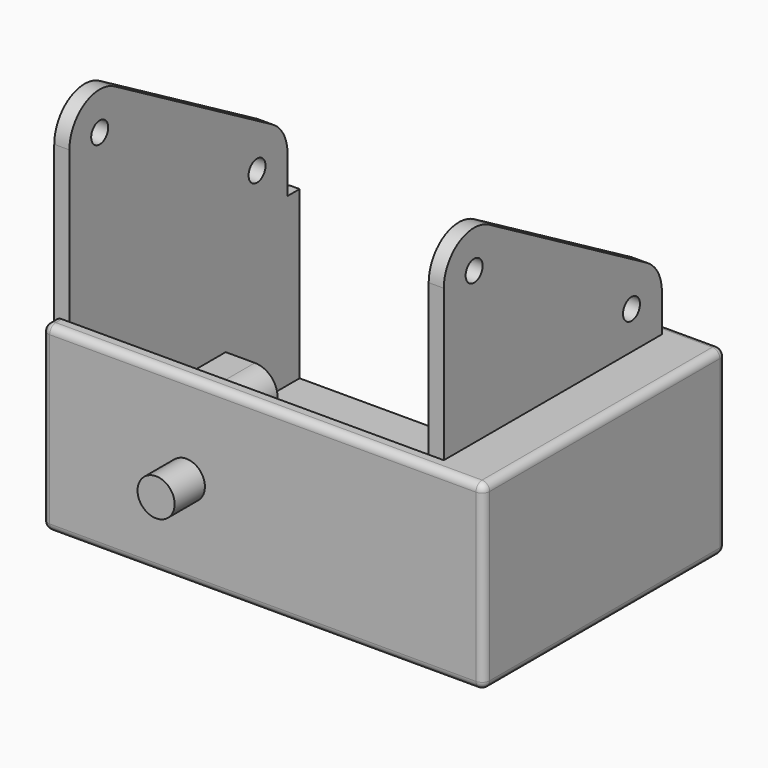
from build123d import *

# Parameters (mm, degrees)
SKETCH_W        = 54.3
SKETCH_H        = 38
PAD_DEPTH       = 2
SKETCH001_W     = 54.3
SKETCH001_H     = 2
PAD001_DEPTH    = 22
SKETCH002_R     = 2.45
PAD002_DEPTH    = 5
SKETCH003_W     = 40
SKETCH003_H     = 22
PAD003_DEPTH    = 2
SKETCH004_W     = 40
SKETCH004_H     = 22
PAD004_DEPTH    = 2
SKETCH005_W     = 6.85
SKETCH005_H     = 15
PAD005_DEPTH    = 8
SKETCH006_R     = 1.4
POCKET_DEPTH    = 15
FILLET_R        = 3
FILLET001_R     = 2
SKETCH007_W     = 6.85
SKETCH007_H     = 25.8
PAD006_DEPTH    = 20
SKETCH008_R     = 1.4
POCKET001_DEPTH = 15
PAD007_DEPTH    = 2
SKETCH010_R     = 1.4
PAD008_DEPTH    = 2
SKETCH011_R     = 1.4
PAD009_DEPTH    = 2
FILLET002_R     = 1
FILLET003_R     = 1
FILLET004_R     = 1
FILLET005_R     = 1
FILLET006_R     = 1


with BuildPart() as body:
    # Sketch → Pad (new body)
    with BuildSketch(Plane.XY):
        with Locations((27.15, 21)):
            Rectangle(SKETCH_W, SKETCH_H)
    extrude(amount=PAD_DEPTH)

    # Sketch001 → Pad001 (join)
    with BuildSketch(Plane.XY):
        with Locations((27.15, 1)):
            Rectangle(SKETCH001_W, SKETCH001_H)
    extrude(amount=PAD001_DEPTH)

    # Sketch002 → Pad002 (join)
    with BuildSketch(Plane.XZ):
        with Locations((37.25, 12)):
            Circle(SKETCH002_R)
    extrude(amount=PAD002_DEPTH)

    # Sketch003 (on Face2 of Pad002) → Pad003 (join)
    with BuildSketch(Plane(origin=(0, 0, 0), x_dir=(0, -1, 0), z_dir=(-1, 0, 0))):
        with Locations((-20, 11)):
            Rectangle(SKETCH003_W, SKETCH003_H)
    extrude(amount=PAD003_DEPTH)

    # Sketch004 (on Face3 of Pad003) → Pad004 (join)
    with BuildSketch(Plane.YZ.offset(54.3)):
        with Locations((20, 11)):
            Rectangle(SKETCH004_W, SKETCH004_H)
    extrude(amount=PAD004_DEPTH)

    # Sketch005 (on Face5 of Pad004) → Pad005 (join)
    with BuildSketch(Plane.XY.offset(2)):
        with Locations((50.875, 20.3)):
            Rectangle(SKETCH005_W, SKETCH005_H)
    extrude(amount=PAD005_DEPTH)

    # Sketch006 (on Face15 of Pad005) → Pocket (cut)
    with BuildSketch(Plane(origin=(0, 27.8, 0), x_dir=(-1, 0, 0), z_dir=(0, 1, 0))):
        with Locations((-51.3, 7)):
            Circle(SKETCH006_R)
    extrude(amount=-POCKET_DEPTH, mode=Mode.SUBTRACT)

    # Fillet
    fillet_edges = [body.edges().sort_by_distance(p)[0] for p in [
        (47.45, 20.3, 10),
    ]]
    fillet(fillet_edges, radius=FILLET_R)

    # Fillet001
    fillet001_edges = [body.edges().sort_by_distance(p)[0] for p in [
        (52.375, 12.8, 10),
    ]]
    fillet(fillet001_edges, radius=FILLET001_R)

    # Sketch007 (on Face5 of Fillet001) → Pad006 (join)
    with BuildSketch(Plane.XY.offset(2)):
        with Locations((3.425, 14.9)):
            Rectangle(SKETCH007_W, SKETCH007_H)
    extrude(amount=PAD006_DEPTH)

    # Sketch008 (on Face14 of Pad006) → Pocket001 (cut)
    with BuildSketch(Plane(origin=(0, 27.8, 0), x_dir=(-1, 0, 0), z_dir=(0, 1, 0))):
        with Locations((-3, 7)):
            Circle(SKETCH008_R)
        with Locations((-3, 17)):
            Circle(SKETCH008_R)
    extrude(amount=-POCKET001_DEPTH, mode=Mode.SUBTRACT)

    # Sketch009 (on Face21 of Pocket001) → Pad007 (join)
    with BuildSketch(Plane.XY.offset(22)):
        Polygon((54.3, 2), (54.3, 40), (56.3, 40), (56.3, 0), (-2, 0), (-2, 40), (6.85, 40), (6.85, 2), align=None)
    extrude(amount=PAD007_DEPTH)

    # Sketch010 (on Face22 of Pad007) → Pad008 (join)
    with BuildSketch(Plane.YZ.offset(6.85)):
        with BuildLine():
            Line((2, 24), (38, 24))
            Line((38, 29), (38, 24))
            ThreePointArc((38, 29), (37.326745, 31.511013), (35.487593, 33.348396))
            Line((35.487593, 33.348396), (9.497223, 48.331729))
            ThreePointArc((9.497223, 48.331729), (4.498612, 48.329325), (2, 44))
            Line((2, 44), (2, 24))
        make_face()
        with Locations((7, 44)):
            Circle(SKETCH010_R, mode=Mode.SUBTRACT)
        with Locations((32.980762, 29)):
            Circle(SKETCH010_R, mode=Mode.SUBTRACT)
    extrude(amount=-PAD008_DEPTH)

    # Sketch011 (on Face20 of Pad008) → Pad009 (join)
    with BuildSketch(Plane(origin=(54.3, 0, 0), x_dir=(0, -1, 0), z_dir=(-1, 0, 0))):
        with BuildLine():
            Line((-38, 24), (-38, 29))
            ThreePointArc((-35.487593, 33.348396), (-37.326745, 31.511013), (-38, 29))
            Line((-35.487593, 33.348396), (-9.497223, 48.331729))
            ThreePointArc((-2, 44), (-4.498612, 48.329325), (-9.497223, 48.331729))
            Line((-2, 44), (-2, 24))
            Line((-2, 24), (-38, 24))
        make_face()
        with Locations((-7, 44)):
            Circle(SKETCH011_R, mode=Mode.SUBTRACT)
        with Locations((-32.980762, 29)):
            Circle(SKETCH011_R, mode=Mode.SUBTRACT)
    extrude(amount=-PAD009_DEPTH)

    # Fillet002
    fillet002_edges = [body.edges().sort_by_distance(p)[0] for p in [
        (-2, 20, 0),
    ]]
    fillet(fillet002_edges, radius=FILLET002_R)

    # Fillet003
    fillet003_edges = [body.edges().sort_by_distance(p)[0] for p in [
        (27.15, 0, 0),
    ]]
    fillet(fillet003_edges, radius=FILLET003_R)

    # Fillet004
    fillet004_edges = [body.edges().sort_by_distance(p)[0] for p in [
        (27.15, 40, 0),
    ]]
    fillet(fillet004_edges, radius=FILLET004_R)

    # Fillet005
    fillet005_edges = [body.edges().sort_by_distance(p)[0] for p in [
        (56.3, 20, 0),
    ]]
    fillet(fillet005_edges, radius=FILLET005_R)

    # Fillet006
    fillet006_edges = [body.edges().sort_by_distance(p)[0] for p in [
        (27.15, 0, 24),
    ]]
    fillet(fillet006_edges, radius=FILLET006_R)


with BuildPart() as part_mirroring:
    # Part__Mirroring: instance of Body
    add(body.part.mirror(Plane(origin=(0, 0, 0), x_dir=(0, -1, 0), z_dir=(1, 0, 0))))


solid = part_mirroring.part
